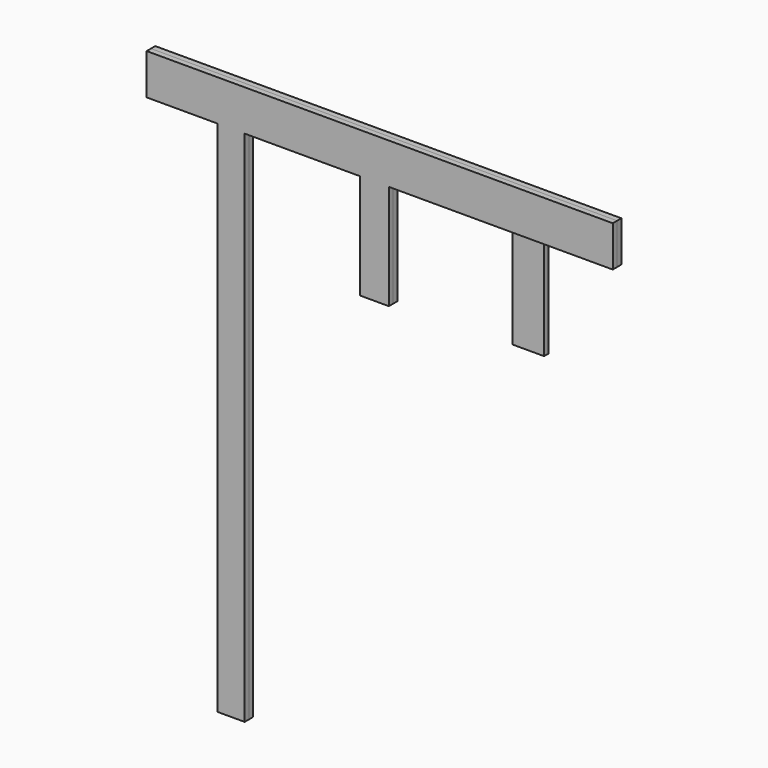
from build123d import *

# Parameters (mm, degrees)
F0_W     = 127
F0_H     = 1935.77512
F0_H_2   = 507.999781
F0_W_2   = 136.071353
F0_H_3   = 495.685312
F0_W_3   = 147.719816
F0_H_4   = 480.527499
F1_DEPTH = 25.4
F2_DEPTH = 25.4
F3_DEPTH = 25.4


with BuildPart() as f1:
    # F0 (on Front) → F1 (new body)
    with BuildSketch(Plane.XZ):
        with Locations((-700.767518, -1064.112659)):
            Rectangle(F0_W, F0_H)
        with Locations((-700.767518, -2286.000109)):
            Rectangle(F0_W, F0_H_2)
        with Locations((-24.946454, -344.067755)):
            Rectangle(F0_W_2, F0_H_3)
        with Locations((681.33607, -338.039555)):
            Rectangle(F0_W_3, F0_H_4)
        Polygon((1099.630639, 96.225099), (-1099.630639, 96.225099), (-1099.630639, -96.225099), (-764.267518, -96.225099), (-637.267518, -96.225099), (-92.982131, -96.225099), (43.089222, -96.225099), (1099.630639, -96.225099), align=None)
    extrude(amount=F1_DEPTH)


with BuildPart() as f2:
    # F0 (on Front) → F2 (new body)
    with BuildSketch(Plane.XZ):
        with Locations((681.33607, -338.039555)):
            Rectangle(F0_W_3, F0_H_4)
        Polygon((1099.630639, 96.225099), (-1099.630639, 96.225099), (-1099.630639, -96.225099), (-764.267518, -96.225099), (-637.267518, -96.225099), (-92.982131, -96.225099), (43.089222, -96.225099), (1099.630639, -96.225099), align=None)
        with Locations((-700.767518, -1064.112659)):
            Rectangle(F0_W, F0_H)
        with Locations((-24.946454, -344.067755)):
            Rectangle(F0_W_2, F0_H_3)
        with Locations((-700.767518, -2286.000109)):
            Rectangle(F0_W, F0_H_2)
    extrude(amount=F2_DEPTH)


with BuildPart() as f3:
    # F1_face (on face) → F3 (new body)
    with BuildSketch(Plane(origin=(-273.604254, -25.4, -539.656877), x_dir=(1, 0, 0), z_dir=(0, -1, 0))):
        Polygon((1373.234893, 635.881976), (-826.026385, 635.881976), (-826.026385, 443.431778), (-490.663265, 443.431778), (-490.663265, -2000.343123), (-363.663265, -2000.343123), (-363.663265, 443.431778), (180.622123, 443.431778), (180.622123, -52.253534), (316.693476, -52.253534), (316.693476, 443.431778), (1373.234893, 443.431778), align=None)
    extrude(amount=F3_DEPTH)


solid = Compound([f1.part, f2.part, f3.part])
